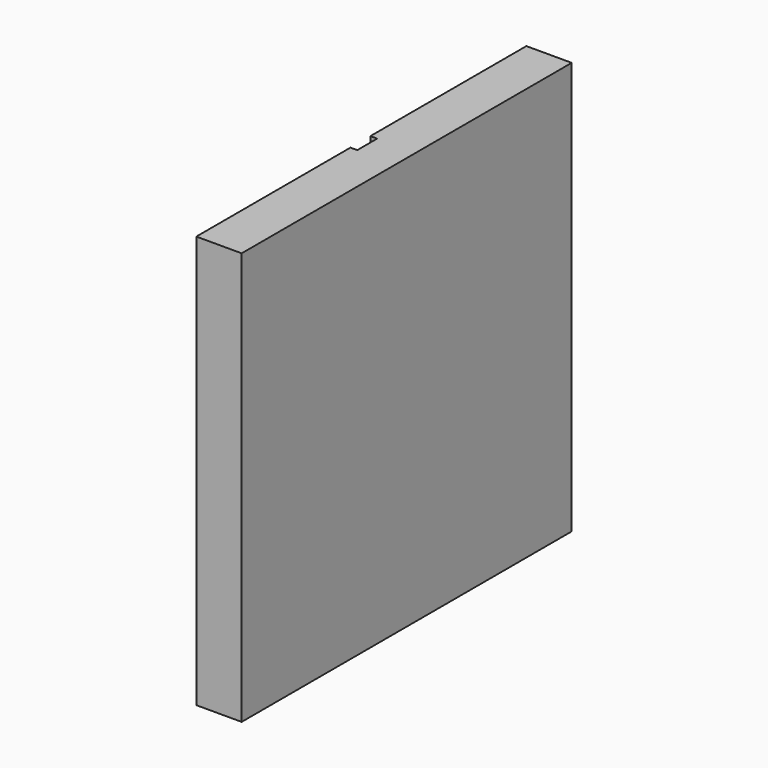
from build123d import *

# Parameters (mm, degrees)
F0_W     = 182
F0_H     = 182
F0_W_2   = 102
F0_H_2   = 102
F1_DEPTH = 20
F2_DEPTH = 3
F3_W     = 11
F3_H     = 40
F4_DEPTH = 3


with BuildPart() as f1:
    # F0 (on Right) → F1 (new body)
    with BuildSketch(Plane.YZ):
        with Locations((51, -51)):
            Rectangle(F0_W, F0_H)
        with Locations((51, -51)):
            Rectangle(F0_W_2, F0_H_2, mode=Mode.SUBTRACT)
        with Locations((51, -51)):
            Rectangle(F0_W_2, F0_H_2)
    extrude(amount=F1_DEPTH)

    # F0 (on Right) → F2 (cut)
    with BuildSketch(Plane.YZ):
        with Locations((51, -51)):
            Rectangle(F0_W_2, F0_H_2)
    extrude(amount=F2_DEPTH, mode=Mode.SUBTRACT)

    # F3 (on face) → F4 (cut)
    with BuildSketch(Plane.YZ):
        with Locations((50.5, 20)):
            Rectangle(F3_W, F3_H)
    extrude(amount=F4_DEPTH, mode=Mode.SUBTRACT)


solid = f1.part
